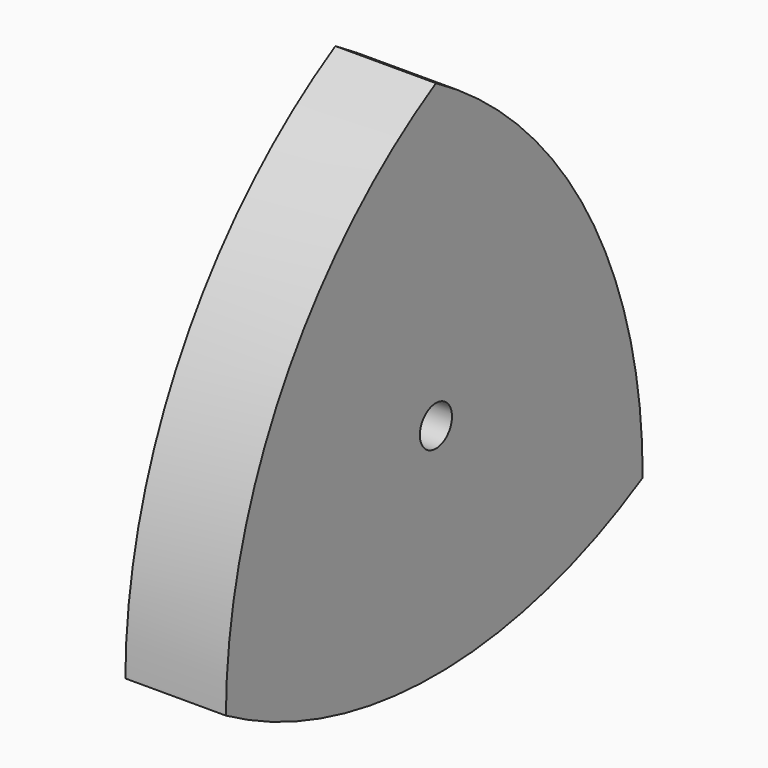
from build123d import *

# Parameters (mm, degrees)
F0_R     = 5
F1_DEPTH = 25


with BuildPart() as f1:
    # F0 (on Right) → F1 (new body)
    with BuildSketch(Plane.YZ):
        with BuildLine():
            ThreePointArc((64.268963, -37.496891), (47.206207, 27.361963), (0, 75))
            ThreePointArc((0, 75), (-47.638037, 27.793793), (-65.290684, -36.907))
            ThreePointArc((-65.290684, -36.907), (-0.589891, -54.559646), (64.268963, -37.496891))
        make_face()
        Circle(F0_R, mode=Mode.SUBTRACT)
    extrude(amount=F1_DEPTH)


solid = f1.part
